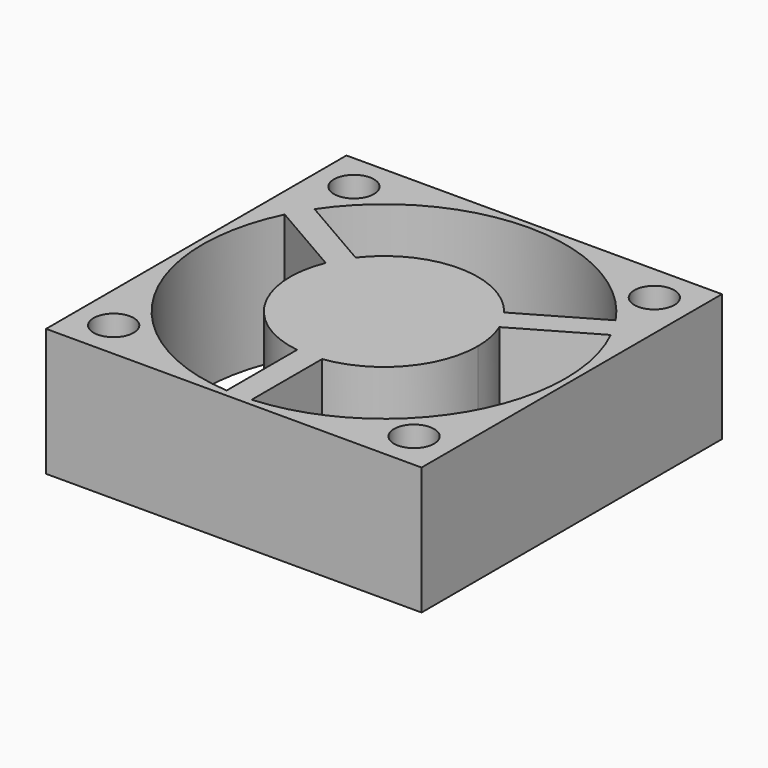
from build123d import *

# Parameters (mm, degrees)
F0_W     = 30
F0_H     = 30
F0_R     = 1.6
F1_DEPTH = 10.2


with BuildPart() as f1:
    # F0 (on Top) → F1 (new body)
    with BuildSketch(Plane.XY):
        Rectangle(F0_W, F0_H)
        with Locations((-12, -12)):
            Circle(F0_R, mode=Mode.SUBTRACT)
        with Locations((12, -12)):
            Circle(F0_R, mode=Mode.SUBTRACT)
        with Locations((-12, 12)):
            Circle(F0_R, mode=Mode.SUBTRACT)
        with BuildLine():
            ThreePointArc((13.0274698164, 6.366712667), (14.1270717478, 3.2673909823), (14.5, 0))
            ThreePointArc((14.5, 0), (10.6007075236, -9.8931794687), (1, -14.4654761415))
            Line((1, -14.4654761415), (1, -14.5))
            Line((1, -14.5), (0, -14.5))
            Line((0, -14.5), (-1, -14.5))
            Line((-1, -14.5), (-1, -14.4654761415))
            ThreePointArc((-1, -14.4654761415), (-12.5573683549, -7.25), (-13.0274698164, 6.366712667))
            Line((-13.0274698164, 6.366712667), (-13.0573683549, 6.3839745962))
            Line((-13.0573683549, 6.3839745962), (-12.5573697637, 7.2499975598))
            Line((-12.5573697637, 7.2499975598), (-12.0573683549, 8.1160254038))
            Line((-12.0573683549, 8.1160254038), (-12.0274698164, 8.0987634745))
            ThreePointArc((-12.0274698164, 8.0987634745), (0, 14.5), (12.0274698164, 8.0987634745))
            Line((12.0274698164, 8.0987634745), (12.0573683549, 8.1160254038))
            Line((12.0573683549, 8.1160254038), (12.5573697634, 7.2499975604))
            Line((12.5573697634, 7.2499975604), (13.0573683549, 6.3839745962))
            Line((13.0573683549, 6.3839745962), (13.0274698164, 6.366712667))
        make_face(mode=Mode.SUBTRACT)
        with Locations((12, 12)):
            Circle(F0_R, mode=Mode.SUBTRACT)
        with BuildLine():
            Line((6.9371965948, 2.850491783), (13.0274698164, 6.366712667))
            ThreePointArc((13.0274698164, 6.366712667), (12.8000410988, 6.8124113109), (12.5573697634, 7.2499975604))
            ThreePointArc((12.5573697634, 7.2499975604), (12.2997432975, 7.678952716), (12.0274698164, 8.0987634745))
            Line((12.0274698164, 8.0987634745), (5.9371965948, 4.5825425906))
            ThreePointArc((5.9371965948, 4.5825425906), (6.4951905284, 3.75), (6.9371965948, 2.850491783))
        make_face()
        with BuildLine():
            Line((-5.9371965948, 4.5825425906), (-12.0274698164, 8.0987634745))
            ThreePointArc((-12.0274698164, 8.0987634745), (-12.2997432977, 7.6789527158), (-12.5573697637, 7.2499975598))
            ThreePointArc((-12.5573697637, 7.2499975598), (-12.800041099, 6.8124113106), (-13.0274698164, 6.366712667))
            Line((-13.0274698164, 6.366712667), (-6.9371965948, 2.850491783))
            ThreePointArc((-6.9371965948, 2.850491783), (-6.4951905284, 3.75), (-5.9371965948, 4.5825425906))
        make_face()
        with BuildLine():
            ThreePointArc((0, -14.5), (0.5002978855, -14.4913664651), (1, -14.4654761415))
            Line((1, -14.4654761415), (1, -7.4330343737))
            ThreePointArc((1, -7.4330343737), (0, -7.5), (-1, -7.4330343737))
            Line((-1, -7.4330343737), (-1, -14.4654761415))
            ThreePointArc((-1, -14.4654761415), (-0.5002978855, -14.4913664651), (0, -14.5))
        make_face()
        with BuildLine():
            ThreePointArc((7.5, 0), (7.3579540112, 1.4527603965), (6.9371965948, 2.850491783))
            Line((6.9371965948, 2.850491783), (5.9371965948, 4.5825425906))
            ThreePointArc((5.9371965948, 4.5825425906), (0, 7.5), (-5.9371965948, 4.5825425906))
            Line((-5.9371965948, 4.5825425906), (-6.9371965948, 2.850491783))
            ThreePointArc((-6.9371965948, 2.850491783), (-6.4951905284, -3.75), (-1, -7.4330343737))
            Line((-1, -7.4330343737), (1, -7.4330343737))
            ThreePointArc((1, -7.4330343737), (5.6457948953, -4.9371044145), (7.5, 0))
        make_face()
        with BuildLine():
            ThreePointArc((12.5573697634, 7.2499975604), (12.8000410988, 6.8124113109), (13.0274698164, 6.366712667))
            Line((13.0274698164, 6.366712667), (13.0573683549, 6.3839745962))
            Line((13.0573683549, 6.3839745962), (12.5573697634, 7.2499975604))
        make_face()
        with BuildLine():
            ThreePointArc((-1, -7.4330343737), (0, -7.5), (1, -7.4330343737))
            Line((1, -7.4330343737), (-1, -7.4330343737))
        make_face()
        with BuildLine():
            Line((-6.9371965948, 2.850491783), (-5.9371965948, 4.5825425906))
            ThreePointArc((-5.9371965948, 4.5825425906), (-6.4951905284, 3.75), (-6.9371965948, 2.850491783))
        make_face()
        with BuildLine():
            Line((5.9371965948, 4.5825425906), (6.9371965948, 2.850491783))
            ThreePointArc((6.9371965948, 2.850491783), (6.4951905284, 3.75), (5.9371965948, 4.5825425906))
        make_face()
        with BuildLine():
            Line((1, -14.5), (1, -14.4654761415))
            ThreePointArc((1, -14.4654761415), (0.5002978855, -14.4913664651), (0, -14.5))
            Line((0, -14.5), (1, -14.5))
        make_face()
        with BuildLine():
            Line((-1, -14.5), (0, -14.5))
            ThreePointArc((0, -14.5), (-0.5002978855, -14.4913664651), (-1, -14.4654761415))
            Line((-1, -14.4654761415), (-1, -14.5))
        make_face()
        with BuildLine():
            Line((-13.0573683549, 6.3839745962), (-13.0274698164, 6.366712667))
            ThreePointArc((-13.0274698164, 6.366712667), (-12.800041099, 6.8124113106), (-12.5573697637, 7.2499975598))
            Line((-12.5573697637, 7.2499975598), (-13.0573683549, 6.3839745962))
        make_face()
        with BuildLine():
            ThreePointArc((-12.5573697637, 7.2499975598), (-12.2997432977, 7.6789527158), (-12.0274698164, 8.0987634745))
            Line((-12.0274698164, 8.0987634745), (-12.0573683549, 8.1160254038))
            Line((-12.0573683549, 8.1160254038), (-12.5573697637, 7.2499975598))
        make_face()
        with BuildLine():
            ThreePointArc((12.0274698164, 8.0987634745), (12.2997432975, 7.678952716), (12.5573697634, 7.2499975604))
            Line((12.5573697634, 7.2499975604), (12.0573683549, 8.1160254038))
            Line((12.0573683549, 8.1160254038), (12.0274698164, 8.0987634745))
        make_face()
    extrude(amount=F1_DEPTH)


solid = f1.part
